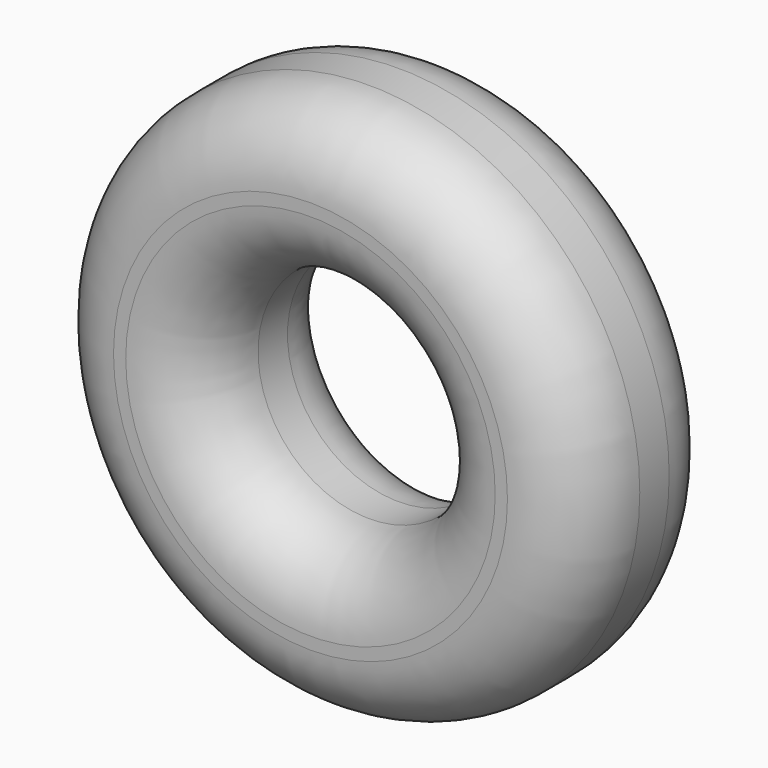
from build123d import *

# Parameters (mm, degrees)
F0_R        = 18.690948
F0_R_2      = 7.686125
F1_DEPTH    = 6.35
F2_R        = 5.08
F1_FACE_R   = 18.690948
F1_FACE_R_2 = 7.686125
F3_DEPTH    = 6.35
F4_R        = 5.08


with BuildPart() as f1:
    # F0 (on Front) → F1 (new body)
    with BuildSketch(Plane.XZ):
        Circle(F0_R)
        Circle(F0_R_2, mode=Mode.SUBTRACT)
    extrude(amount=F1_DEPTH)

    # F2
    f2_edges = [f1.edges().sort_by_distance(p)[0] for p in [
        (-18.690948, -6.35, 0),
        (-7.686125, -6.35, 0),
    ]]
    fillet(f2_edges, radius=F2_R)

    # F1_face (on face) → F3 (join)
    with BuildSketch(Plane(origin=(0, 0, 0), x_dir=(1, 0, 0), z_dir=(0, 1, 0))):
        Circle(F1_FACE_R)
        Circle(F1_FACE_R_2, mode=Mode.SUBTRACT)
    extrude(amount=F3_DEPTH)

    # F4
    f4_edges = [f1.edges().sort_by_distance(p)[0] for p in [
        (-18.690948, 6.35, 0),
        (-7.686125, 6.35, 0),
    ]]
    fillet(f4_edges, radius=F4_R)


solid = f1.part
